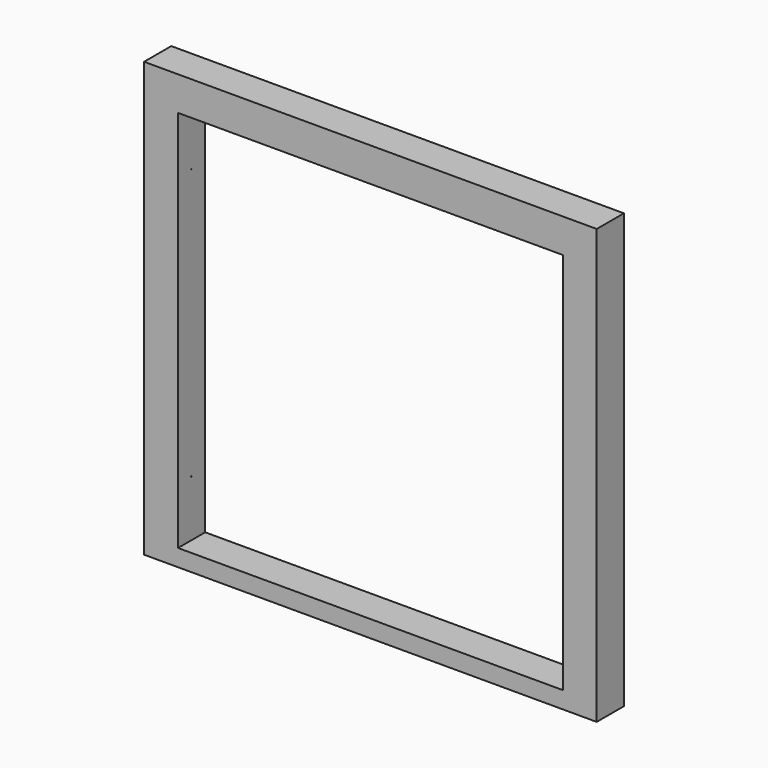
from build123d import *

# Parameters (mm, degrees)
F1_DEPTH = 300
F2_R     = 5
F3_DEPTH = 1
F4_R     = 5
F5_DEPTH = 1


with BuildPart() as f1:
    # F0 (on Front) → F1 (new body)
    with BuildSketch(Plane.XZ):
        Polygon((-3031.6483664513, -138.527944684), (-3031.6483664513, 3246.472055316), (368.3516335487, 3246.472055316), (368.3516335487, -138.527944684), (668.3516335487, -138.527944684), (668.3516335487, 3546.472055316), (-3331.6483664513, 3546.472055316), (-3331.6483664513, -138.527944684), align=None)
        Polygon((368.3516335487, -138.527944684), (-3031.6483664513, -138.527944684), (-3331.6483664513, -138.527944684), (-3331.6483664513, -288.527944684), (668.3516335487, -288.527944684), (668.3516335487, -138.527944684), align=None)
    extrude(amount=F1_DEPTH)

    # F2 (on face) → F3 (join)
    with BuildSketch(Plane.YZ.offset(-3031.6483664513)):
        with Locations((-150, 2748.972055316)):
            Circle(F2_R)
        with Locations((-150, 358.972055316)):
            Circle(F2_R)
    extrude(amount=F3_DEPTH)

    # F4 (on face) → F5 (join)
    with BuildSketch(Plane(origin=(368.3516335487, 0, 0), x_dir=(0, -1, 0), z_dir=(-1, 0, 0))):
        with Locations((150, 2748.972055316)):
            Circle(F4_R)
        with Locations((150, 358.972055316)):
            Circle(F4_R)
    extrude(amount=F5_DEPTH)


solid = f1.part
